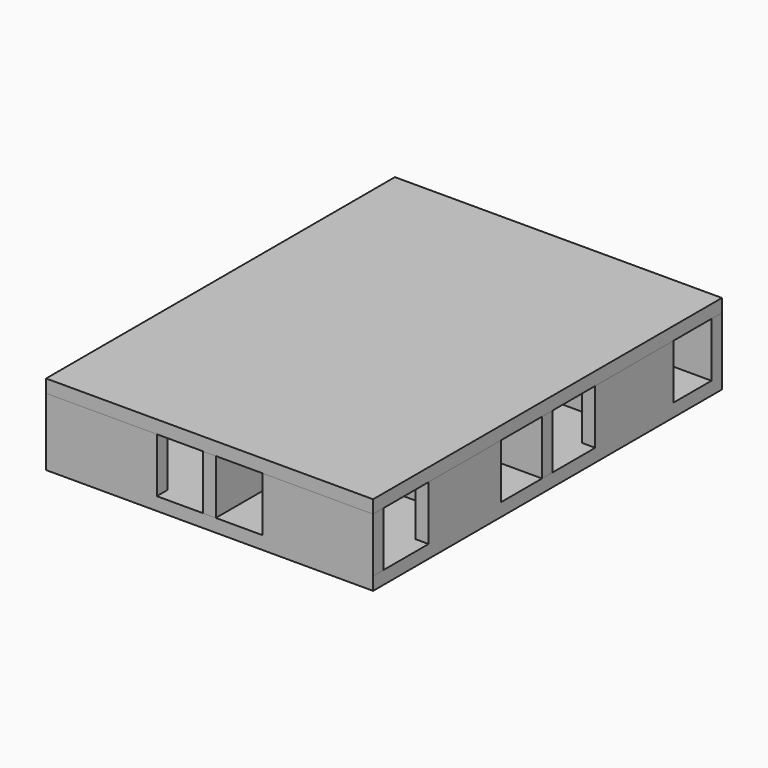
from build123d import *

# Parameters (mm, degrees)
F0_W     = 76.2
F0_H     = 101.6
F1_DEPTH = 3.048
F2_W     = 25.238578
F2_H     = 3.048
F2_W_2   = 3.048
F2_H_2   = 21.454054
F2_W_3   = 14.951317
F2_H_3   = 22.784396
F2_W_4   = 24.933161
F2_H_4   = 21.244367
F2_H_5   = 21.031751
F2_W_5   = 19.353797
F2_H_6   = 20.421157
F2_W_6   = 25.804729
F3_DEPTH = 12.7
F4_W     = 25.238578
F4_H     = 3.048
F5_DEPTH = 3.048


with BuildPart() as f1:
    # F0 (on Top) → F1 (new body)
    with BuildSketch(Plane.XY):
        Rectangle(F0_W, F0_H)
    extrude(amount=F1_DEPTH)

    # F2 (on face) → F3 (join)
    with BuildSketch(Plane.XY.offset(3.048)):
        with Locations((-25.480711, 49.276)):
            Rectangle(F2_W, F2_H)
        with Locations((25.480711, 49.276)):
            Rectangle(F2_W, F2_H)
        with Locations((0.076681, 40.072973)):
            Rectangle(F2_W_2, F2_H_2)
        with Locations((-20.530921, 25.026575)):
            Rectangle(F2_W_3, F2_H)
        with Locations((-36.576, 25.297143)):
            Rectangle(F2_W_2, F2_H_3)
        with Locations((20.530921, 25.026575)):
            Rectangle(F2_W_3, F2_H)
        with Locations((36.576, 25.297143)):
            Rectangle(F2_W_2, F2_H_3)
        with Locations((25.63342, -0.061376)):
            Rectangle(F2_W_4, F2_H)
        with Locations((0.098287, -1.087287)):
            Rectangle(F2_W_2, F2_H_4)
        with Locations((-25.63342, -0.061376)):
            Rectangle(F2_W_4, F2_H)
        with Locations((-36.576, -24.127469)):
            Rectangle(F2_W_2, F2_H_5)
        with Locations((-15.968946, -21.239439)):
            Rectangle(F2_W_5, F2_H)
        with Locations((15.968946, -21.239439)):
            Rectangle(F2_W_5, F2_H)
        with Locations((36.576, -24.127469)):
            Rectangle(F2_W_2, F2_H_5)
        with Locations((-0.069343, -40.589422)):
            Rectangle(F2_W_2, F2_H_6)
        with Locations((-25.197636, -49.276)):
            Rectangle(F2_W_6, F2_H)
        with Locations((25.197636, -49.276)):
            Rectangle(F2_W_6, F2_H)
    extrude(amount=F3_DEPTH)

    # F4 (on face) → F5 (join)
    with BuildSketch(Plane.XY.offset(15.748)):
        Polygon((38.100678, 50.8), (-12.861422, 50.8), (-12.861422, 47.752), (-38.1, 47.752), (-38.1, -50.800964), (38.100678, -50.800964), align=None)
        with Locations((-25.480711, 49.276)):
            Rectangle(F4_W, F4_H)
    extrude(amount=F5_DEPTH)


solid = f1.part
